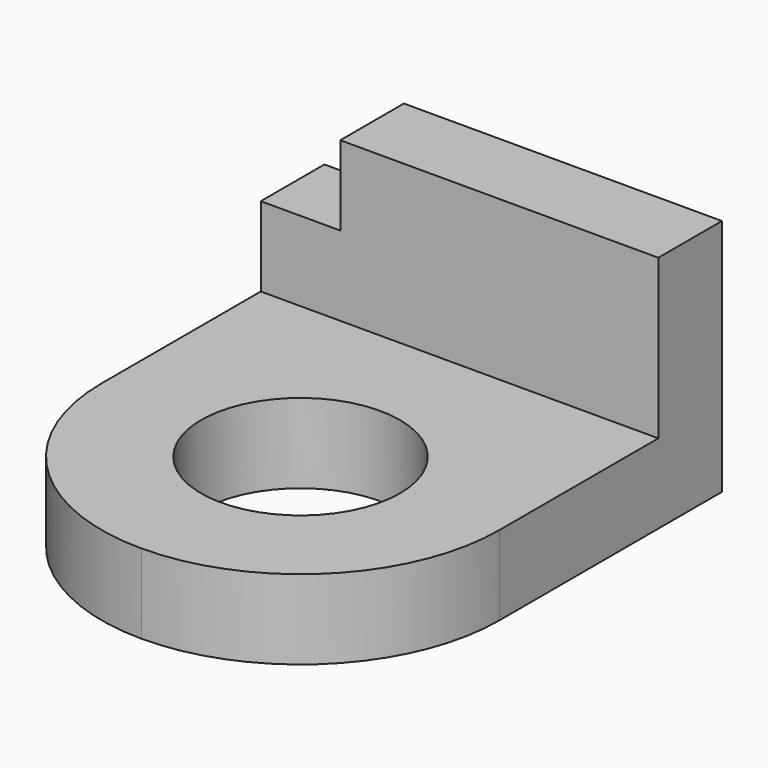
from build123d import *

# Parameters (mm, degrees)
F0_W     = 127
F0_H     = 76.2
F1_DEPTH = 25.4
F2_W     = 127
F2_H     = 25.4
F3_DEPTH = 127
F5_DEPTH = 25.4
F6_R     = 31.75
F7_DEPTH = 25.401
F8_W     = 25.4
F8_H     = 25.4
F9_DEPTH = 25.401


with BuildPart() as f1:
    # F0 (on Front) → F1 (new body)
    with BuildSketch(Plane.XZ):
        Rectangle(F0_W, F0_H)
    extrude(amount=-F1_DEPTH)

    # F2 (on face) → F3 (join)
    with BuildSketch(Plane.XZ):
        with Locations((0, -25.4)):
            Rectangle(F2_W, F2_H)
    extrude(amount=F3_DEPTH)

    # F4 (on face) → F5 (cut)
    with BuildSketch(Plane.XY.offset(-12.7)):
        with BuildLine():
            Line((-63.5, -127), (0, -127))
            ThreePointArc((0, -127), (-44.901281, -108.401281), (-63.5, -63.5))
            Line((-63.5, -63.5), (-63.5, -127))
        make_face()
        with BuildLine():
            ThreePointArc((63.5, -63.5), (44.901281, -108.401281), (0, -127))
            Line((0, -127), (63.5, -127))
            Line((63.5, -127), (63.5, -63.5))
        make_face()
    extrude(amount=-F5_DEPTH, mode=Mode.SUBTRACT)

    # F6 (on face) → F7 (cut, through all)
    with BuildSketch(Plane.XY.offset(-12.7)):
        with Locations((0, -63.5)):
            Circle(F6_R)
    extrude(amount=-F7_DEPTH, mode=Mode.SUBTRACT)

    # F8 (on face) → F9 (cut, through all)
    with BuildSketch(Plane.XZ):
        with Locations((-50.8, 25.4)):
            Rectangle(F8_W, F8_H)
    extrude(amount=-F9_DEPTH, mode=Mode.SUBTRACT)


solid = f1.part
